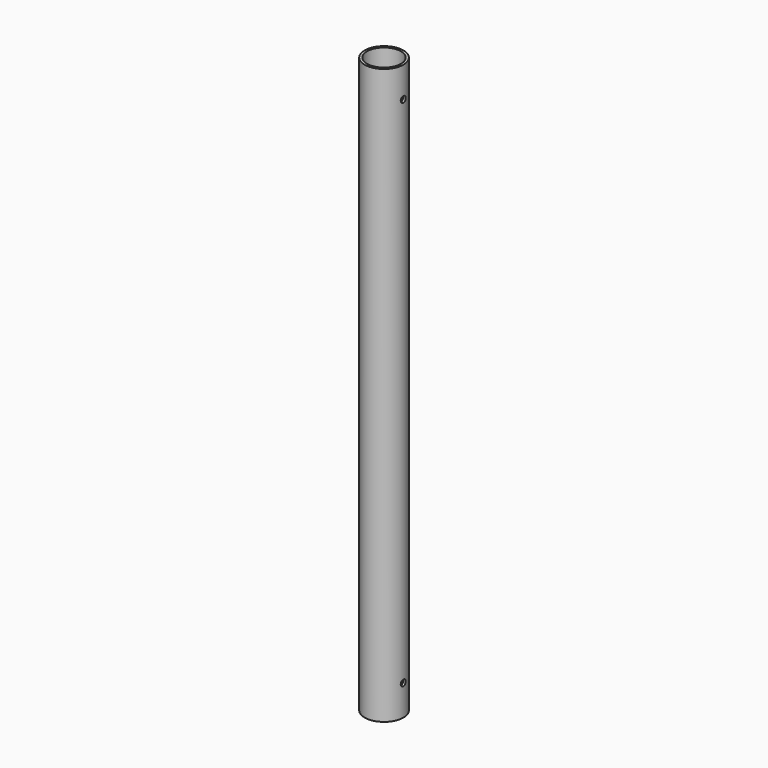
from build123d import *

# Parameters (mm, degrees)
F0_R          = 15.875
F0_R_2        = 13.875
F1_DEPTH      = 470
F2_R          = 2.5
F3_DEPTH      = 30
F3_DEPTH_BACK = 30
F4_R          = 2.5
F5_DEPTH      = 25
F5_DEPTH_BACK = 25


with BuildPart() as f1:
    # F0 (on Top) → F1 (new body)
    with BuildSketch(Plane.XY):
        Circle(F0_R)
        Circle(F0_R_2, mode=Mode.SUBTRACT)
    extrude(amount=F1_DEPTH)

    # F2 (on Right) → F3 (cut, two sides)
    with BuildSketch(Plane.YZ) as f3_sk:
        with Locations((0, 25)):
            Circle(F2_R)
    extrude(amount=F3_DEPTH, mode=Mode.SUBTRACT)
    extrude(f3_sk.sketch, amount=-F3_DEPTH_BACK, mode=Mode.SUBTRACT)

    # F4 (on Right) → F5 (cut, two sides)
    with BuildSketch(Plane.YZ) as f5_sk:
        with Locations((0, 445)):
            Circle(F4_R)
    extrude(amount=-F5_DEPTH, mode=Mode.SUBTRACT)
    extrude(f5_sk.sketch, amount=F5_DEPTH_BACK, mode=Mode.SUBTRACT)


solid = f1.part
